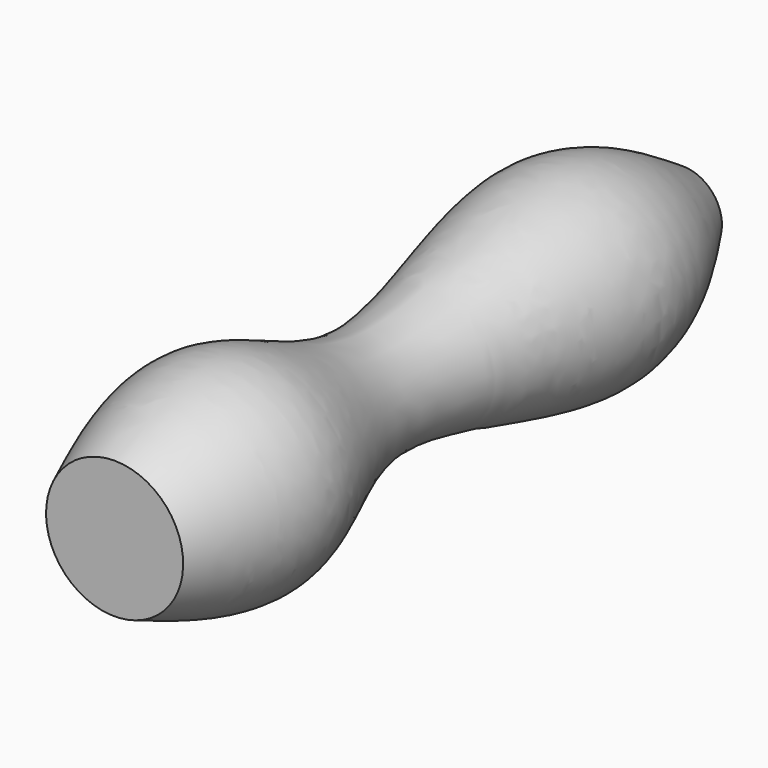
from build123d import *


with BuildPart() as f1:
    # F0 (on Right) → F1 (revolve)
    with BuildSketch(Plane.YZ):
        with BuildLine():
            Line((0, 12.2554389938), (0, 0))
            Line((0, 0), (127, 0))
            Line((127, 0), (127, 6.9687794654))
            add(Edge.make_bspline(
                [(0, 12.2554389938), (9.1862873188, 16.0149400626), (27.8680732326, 23.660487352), (54.7594829409, 2.2272518472), (100.7036543713, 24.2297406657), (118.914703163, 12.2759805864), (127, 6.9687794654)],
                knots=[0, 0, 0, 0, 0.2307863878, 0.4693410666, 0.7643993465, 1, 1, 1, 1], degree=3))
        make_face()
    revolve(axis=Axis((0, 63.5, 0), (0, 1, 0)))


solid = f1.part
